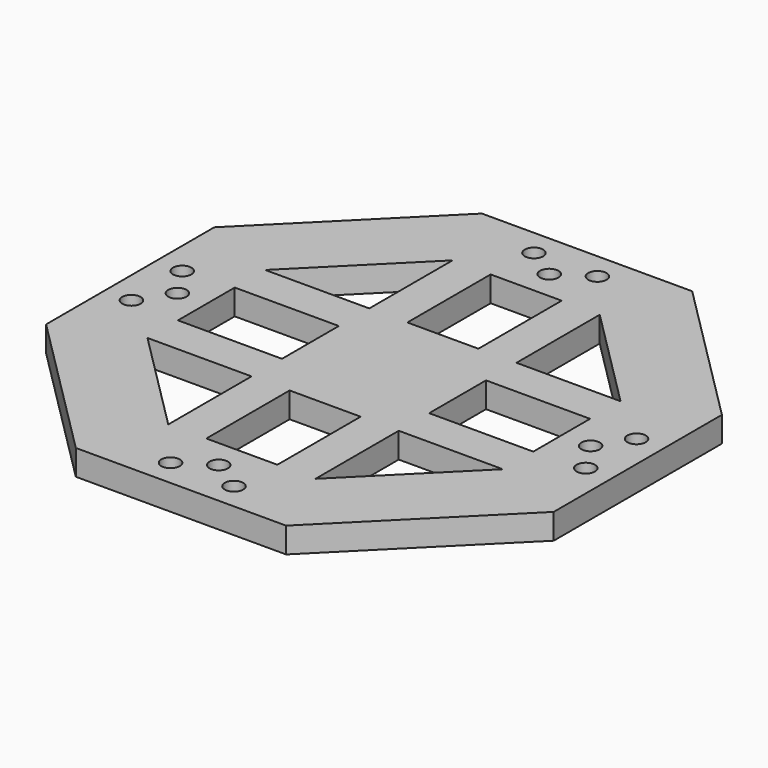
from build123d import *

# Parameters (mm, degrees)
F1_DEPTH  = 5.08
F3_DEPTH  = 5.081
F4_W      = 7.62
F4_H      = 20.830565722
F4_H_2    = 7.62
F4_W_2    = 20.830565722
F4_W_3    = 14.218868556
F4_H_3    = 14.218868556
F5_DEPTH  = 5.08
F6_R      = 1.8415
F10_DEPTH = 5.081
F7_R      = 1.8415
F11_DEPTH = 5.081
F8_R      = 1.8415
F12_DEPTH = 5.081
F9_R      = 1.8415
F13_DEPTH = 5.081
F14_W     = 14.218868556
F14_H     = 14.218868556
F15_DEPTH = 5.08


with BuildPart() as f1:
    # F0 (on Top) → F1 (new body)
    with BuildSketch(Plane.XY):
        Polygon((21.0420489686, 50.8), (-21.0420489686, 50.8), (-50.8, 21.0420489686), (-50.8, -21.0420489686), (-21.0420489686, -50.8), (21.0420489686, -50.8), (50.8, -21.0420489686), (50.8, 21.0420489686), align=None)
    extrude(amount=F1_DEPTH)

    # F2 (on face) → F3 (cut, through all)
    with BuildSketch(Plane.XY.offset(5.08)):
        Polygon((14.729434278, 35.56), (-14.729434278, 35.56), (-35.56, 14.729434278), (-35.56, -14.729434278), (-14.729434278, -35.56), (14.729434278, -35.56), (35.56, -14.729434278), (35.56, 14.729434278), align=None)
    extrude(amount=-F3_DEPTH, mode=Mode.SUBTRACT)

    # F4 (on face) → F5 (join)
    with BuildSketch(Plane.XY.offset(5.08)):
        with Locations((-10.919434278, 25.144717139)):
            Rectangle(F4_W, F4_H)
        with Locations((-10.919434278, 10.919434278)):
            Rectangle(F4_W, F4_H_2)
        with Locations((-25.144717139, 10.919434278)):
            Rectangle(F4_W_2, F4_H_2)
        with Locations((0, 10.919434278)):
            Rectangle(F4_W_3, F4_H_2)
        with Locations((-10.919434278, 0)):
            Rectangle(F4_W, F4_H_3)
        with Locations((10.919434278, 10.919434278)):
            Rectangle(F4_W, F4_H_2)
        with Locations((10.919434278, 25.144717139)):
            Rectangle(F4_W, F4_H)
        with Locations((-10.919434278, -10.919434278)):
            Rectangle(F4_W, F4_H_2)
        with Locations((-25.144717139, -10.919434278)):
            Rectangle(F4_W_2, F4_H_2)
        with Locations((0, -10.919434278)):
            Rectangle(F4_W_3, F4_H_2)
        with Locations((10.919434278, 0)):
            Rectangle(F4_W, F4_H_3)
        with Locations((25.144717139, 10.919434278)):
            Rectangle(F4_W_2, F4_H_2)
        with Locations((-10.919434278, -25.144717139)):
            Rectangle(F4_W, F4_H)
        with Locations((10.919434278, -10.919434278)):
            Rectangle(F4_W, F4_H_2)
        with Locations((10.919434278, -25.144717139)):
            Rectangle(F4_W, F4_H)
        with Locations((25.144717139, -10.919434278)):
            Rectangle(F4_W_2, F4_H_2)
    extrude(amount=-F5_DEPTH)

    # F6 (on face) → F10 (cut, through all)
    with BuildSketch(Plane.XY.offset(5.08)):
        with Locations((45.466, 6.35)):
            Circle(F6_R)
        with Locations((45.466, -6.35)):
            Circle(F6_R)
        with Locations((41.3512, 0)):
            Circle(F6_R)
    extrude(amount=-F10_DEPTH, mode=Mode.SUBTRACT)

    # F7 (on face) → F11 (cut, through all)
    with BuildSketch(Plane.XY.offset(5.08)):
        with Locations((-6.3550683909, 45.466)):
            Circle(F7_R)
        with Locations((6.3449316091, 45.466)):
            Circle(F7_R)
        with Locations((-0.0050683909, 41.3512)):
            Circle(F7_R)
    extrude(amount=-F11_DEPTH, mode=Mode.SUBTRACT)

    # F8 (on face) → F12 (cut, through all)
    with BuildSketch(Plane.XY.offset(5.08)):
        with Locations((-45.466, -6.3510387499)):
            Circle(F8_R)
        with Locations((-45.466, 6.3489612501)):
            Circle(F8_R)
        with Locations((-41.3512, -0.0010387499)):
            Circle(F8_R)
    extrude(amount=-F12_DEPTH, mode=Mode.SUBTRACT)

    # F9 (on face) → F13 (cut, through all)
    with BuildSketch(Plane.XY.offset(5.08)):
        with Locations((6.3503286729, -45.466)):
            Circle(F9_R)
        with Locations((-6.3496713271, -45.466)):
            Circle(F9_R)
        with Locations((0.0003286729, -41.3512)):
            Circle(F9_R)
    extrude(amount=-F13_DEPTH, mode=Mode.SUBTRACT)

    # F14 (on face) → F15 (join)
    with BuildSketch(Plane.XY.offset(5.08)):
        Rectangle(F14_W, F14_H)
    extrude(amount=-F15_DEPTH)


solid = f1.part
